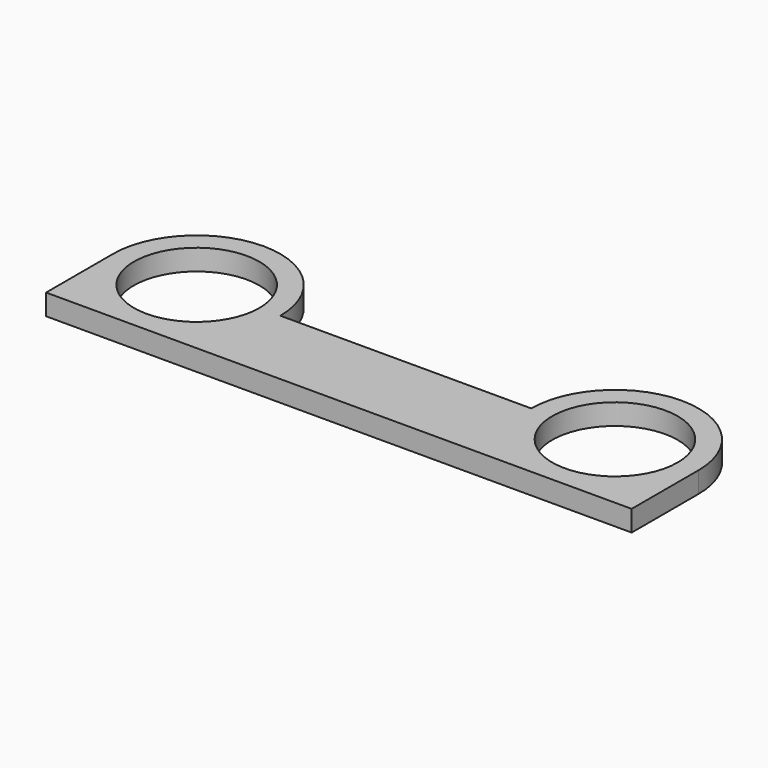
from build123d import *

# Parameters (mm, degrees)
F0_R     = 19.05
F1_DEPTH = 6.35


with BuildPart() as f1:
    # F0 (on Top) → F1 (new body)
    with BuildSketch(Plane.XY):
        with BuildLine():
            Line((-88.9, 0), (-88.9, -25.4))
            Line((-88.9, -25.4), (88.9, -25.4))
            Line((88.9, -25.4), (88.9, 0))
            ThreePointArc((88.9, 0), (81.460512, 17.960512), (63.5, 25.4))
            ThreePointArc((63.5, 25.4), (45.539488, 17.960512), (38.1, 0))
            Line((38.1, 0), (-38.1, 0))
            ThreePointArc((-38.1, 0), (-45.539488, 17.960512), (-63.5, 25.4))
            ThreePointArc((-63.5, 25.4), (-81.460512, 17.960512), (-88.9, 0))
        make_face()
        with Locations((-63.5, 0)):
            Circle(F0_R, mode=Mode.SUBTRACT)
        with Locations((63.5, 0)):
            Circle(F0_R, mode=Mode.SUBTRACT)
    extrude(amount=F1_DEPTH)


solid = f1.part
